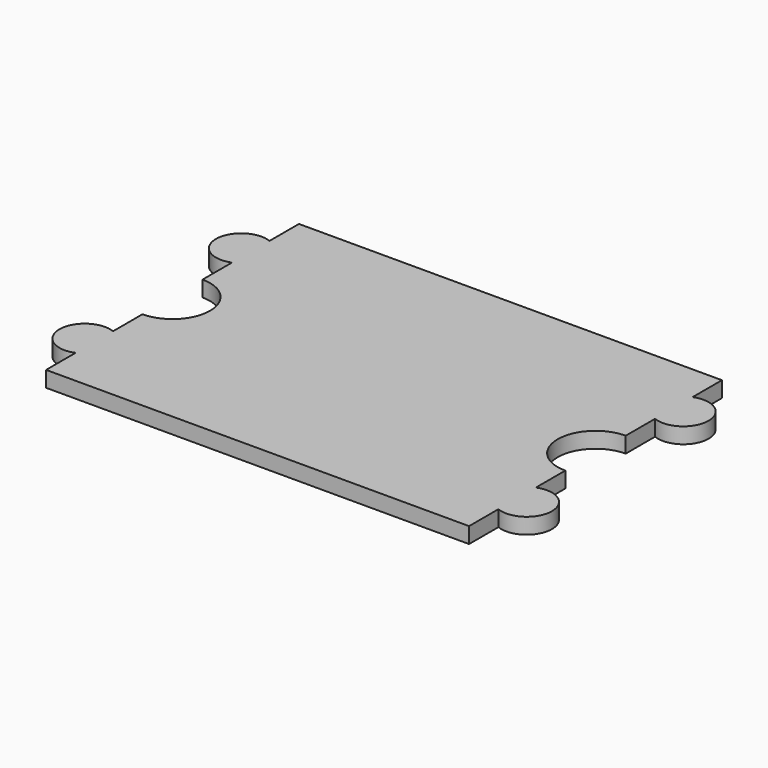
from build123d import *

# Parameters (mm, degrees)
F1_DEPTH = 12.7


with BuildPart() as f1:
    # F0 (on Top) → F1 (new body)
    with BuildSketch(Plane.XY):
        with BuildLine():
            ThreePointArc((-30.1752, 106.3752), (0, 76.2), (-30.1752, 46.0248))
            Line((-30.1752, 46.0248), (-30.1752, 16.449544))
            ThreePointArc((-30.1752, 16.449544), (-58.1152, -2.3876), (-30.1752, -21.224744))
            Line((-30.1752, -21.224744), (-30.1752, -50.8))
            Line((-30.1752, -50.8), (309.753, -50.8))
            Line((309.753, -50.8), (309.753, -21.313644))
            ThreePointArc((309.753, -21.313644), (337.693, -2.4765), (309.753, 16.360644))
            Line((309.753, 16.360644), (309.753, 45.847))
            ThreePointArc((309.753, 45.847), (279.4, 76.2), (309.753, 106.553))
            Line((309.753, 106.553), (309.753, 136.039356))
            ThreePointArc((309.753, 136.039356), (337.693, 154.8765), (309.753, 173.713644))
            Line((309.753, 173.713644), (309.753, 203.2))
            Line((309.753, 203.2), (-30.1752, 203.2))
            Line((-30.1752, 203.2), (-30.1752, 173.624744))
            ThreePointArc((-30.1752, 173.624744), (-58.1152, 154.7876), (-30.1752, 135.950456))
            Line((-30.1752, 135.950456), (-30.1752, 106.3752))
        make_face()
    extrude(amount=F1_DEPTH)


solid = f1.part
